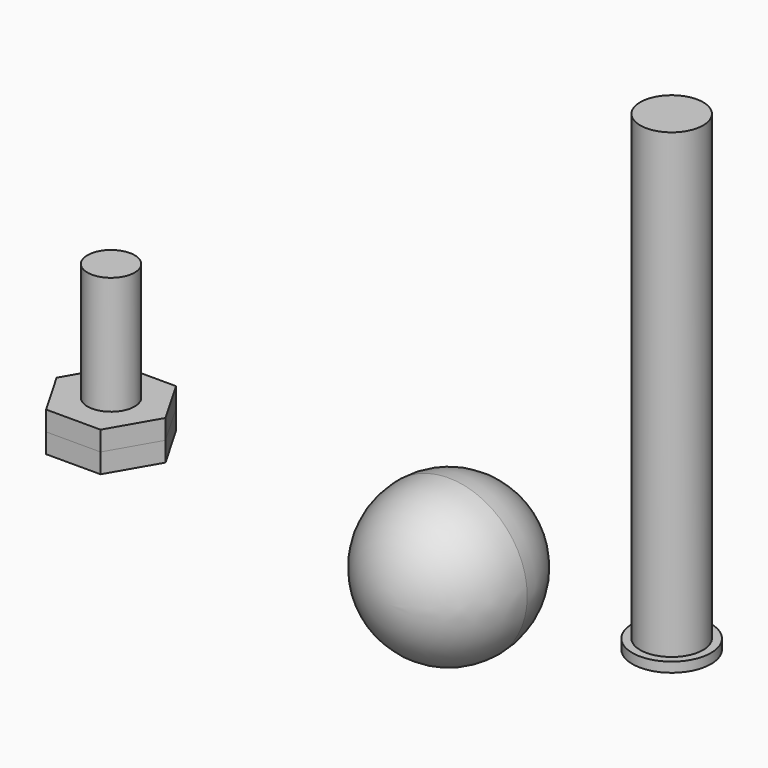
from build123d import *

# Parameters (mm, degrees)
F0_R         = 6.35
F3_DEPTH     = 3.175
F1_R         = 5.08
F1_R_2       = 3.81
F5_DEPTH     = 4.3688
F4_R         = 5.715
F4_R_2       = 5.08
F6_DEPTH     = 4.445
F7_R         = 6.35
F7_R_2       = 3.81
F8_DEPTH     = 1.27
F9_DEPTH     = 3.175
F10_START    = 0.1524
F8_FACE_R    = 5.715
F8_FACE_R_2  = 5.08
F8_FACE1_R   = 6.35
F8_FACE1_R_2 = 3.81
F10_DEPTH    = 1.7526
F0_R_2       = 5.08
F11_DEPTH    = 1.5875
F12_DEPTH    = 76.2
F13_DEPTH    = 25.4


with BuildPart() as f2:
    # F0 (on Top) → F2 (revolve)
    with BuildSketch(Plane.XY):
        with BuildLine():
            ThreePointArc((0, -12.7), (8.9802561211, -8.9802561211), (12.7, 0))
            ThreePointArc((12.7, 0), (8.9802561211, 8.9802561211), (0, 12.7))
            Line((0, 12.7), (0, -12.7))
        make_face()
    revolve(axis=Axis((0, 0, 0), (0, -1, 0)))


with BuildPart() as f3:
    # F0 (on Top) → F3 (new body)
    with BuildSketch(Plane.XY):
        Polygon((-58.9379719451, -7.62), (-50.1391538426, -7.62), (-45.7397447914, 0), (-50.1391538426, 7.62), (-58.9379719451, 7.62), (-63.3373809963, 0), align=None)
        with Locations((-54.5385628939, 0)):
            Circle(F0_R, mode=Mode.SUBTRACT)
    extrude(amount=F3_DEPTH)


with BuildPart() as f3b:
    # F1 (on Top) → F3, piece 2 (new body)
    with BuildSketch(Plane.XY):
        with Locations((-54.5385628939, 0)):
            Circle(F1_R)
        with Locations((-54.5385628939, 0)):
            Circle(F1_R_2, mode=Mode.SUBTRACT)
    extrude(amount=F3_DEPTH)

    # F5 (cut): a face of the model
    f5_faces = [f3b.faces().sort_by_distance(p)[0] for p in [
        (-59.4748787959, 0, 3.175),
    ]]
    extrude(f5_faces, amount=-F5_DEPTH, mode=Mode.SUBTRACT)


with BuildPart() as f6:
    # F4 (on Top) → F6 (new body)
    with BuildSketch(Plane.XY):
        with Locations((-54.5385628939, 0)):
            Circle(F4_R)
        with Locations((-54.5385628939, 0)):
            Circle(F4_R_2, mode=Mode.SUBTRACT)
    extrude(amount=F6_DEPTH)


with BuildPart() as f8:
    # F7 (on face) → F8 (new body)
    with BuildSketch(Plane.XY.offset(3.175)):
        with Locations((-54.5385628939, 0)):
            Circle(F7_R)
        with Locations((-54.5385628939, 0)):
            Circle(F7_R_2, mode=Mode.SUBTRACT)
    extrude(amount=F8_DEPTH)


with BuildPart() as f9:
    # F9 (new): a face of the model
    f9_faces = [f3.part.faces().sort_by_distance(p)[0] for p in [
        (-54.5385628939, -7.3872051547, 3.175),
    ]]
    extrude(f9_faces, amount=F9_DEPTH)

    # F8_face (on face) + F8_face1 (on face) → F10 (join)
    with BuildSketch(Plane(origin=(-54.5385628939, 0, 4.445), x_dir=(1, 0, 0), z_dir=(0, 0, 1)).offset(F10_START)):
        Circle(F8_FACE_R)
        Circle(F8_FACE_R_2, mode=Mode.SUBTRACT)
    with BuildSketch(Plane(origin=(-54.5385628939, 0, 4.445), x_dir=(1, 0, 0), z_dir=(0, 0, 1)).offset(F10_START)):
        Circle(F8_FACE1_R)
        Circle(F8_FACE1_R_2, mode=Mode.SUBTRACT)
    extrude(amount=F10_DEPTH)

    # F1 (on Top) → F13 (join)
    with BuildSketch(Plane.XY):
        with Locations((-54.5385628939, 0)):
            Circle(F1_R_2)
    extrude(amount=F13_DEPTH)


with BuildPart() as f11:
    # F0 (on Top) → F11 (new body)
    with BuildSketch(Plane.XY):
        with Locations((36.031909287, 0)):
            Circle(F0_R)
        with Locations((36.031909287, 0)):
            Circle(F0_R_2, mode=Mode.SUBTRACT)
    extrude(amount=F11_DEPTH)

    # F0 (on Top) → F12 (join)
    with BuildSketch(Plane.XY):
        with Locations((36.031909287, 0)):
            Circle(F0_R_2)
    extrude(amount=F12_DEPTH)


solid = Compound([f2.part, f3.part, f6.part, f8.part, f9.part, f11.part])
